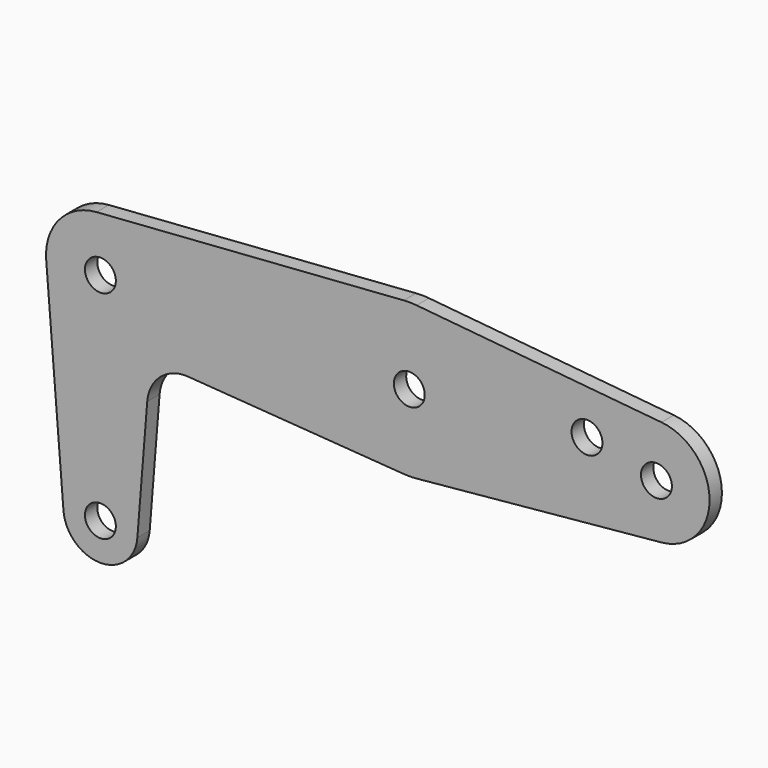
from build123d import *

# Parameters (mm, degrees)
F0_R     = 3.175
F1_DEPTH = 1.5875


with BuildPart() as f1:
    # F0 (on Front) → F1 (new body, symmetric)
    with BuildSketch(Plane.XZ):
        with BuildLine():
            Line((-74.640179, -0.89408), (-71.095577, -45.0596))
            ThreePointArc((-71.095577, -45.0596), (-63.5, -52.07), (-55.904423, -45.0596))
            Line((-55.904423, -45.0596), (-53.871642, -19.731277))
            ThreePointArc((-53.871642, -19.731277), (-51.151382, -14.386389), (-45.455951, -12.507633))
            Line((-45.455951, -12.507633), (-1.133856, -15.707128))
            ThreePointArc((-1.133856, -15.707128), (0.181737, -15.746951), (1.49606, -15.676776))
            Line((1.49606, -15.676776), (51.83759, -10.872603))
            ThreePointArc((51.83759, -10.872603), (61.722, 0), (51.83759, 10.872603))
            Line((51.83759, 10.872603), (1.49606, 15.676776))
            ThreePointArc((1.49606, 15.676776), (0.181737, 15.746951), (-1.133856, 15.707128))
            Line((-1.133856, 15.707128), (-64.304672, 11.146994))
            ThreePointArc((-64.304672, 11.146994), (-71.980374, 7.279165), (-74.640179, -0.89408))
        make_face()
        with Locations((-63.5, -44.45)):
            Circle(F0_R, mode=Mode.SUBTRACT)
        with Locations((-63.5, 0)):
            Circle(F0_R, mode=Mode.SUBTRACT)
        Circle(F0_R, mode=Mode.SUBTRACT)
        with Locations((36.5252, 3.175)):
            Circle(F0_R, mode=Mode.SUBTRACT)
        with Locations((50.8, 0)):
            Circle(F0_R, mode=Mode.SUBTRACT)
    extrude(amount=F1_DEPTH, both=True)


solid = f1.part
